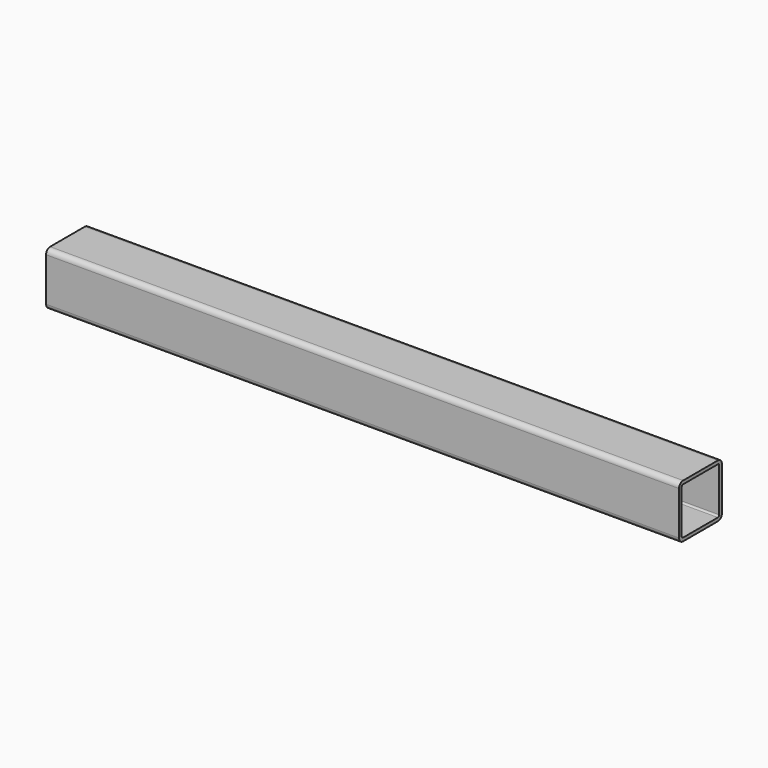
from build123d import *

# Parameters (mm, degrees)
F1_DEPTH = 1200.15


with BuildPart() as f1:
    # F0 (on Right) → F1 (new body)
    with BuildSketch(Plane.YZ):
        with BuildLine():
            ThreePointArc((0, 9.525), (2.789808, 2.789808), (9.525, 0))
            Line((9.525, 0), (92.075, 0))
            ThreePointArc((92.075, 0), (98.810192, 2.789808), (101.6, 9.525))
            Line((101.6, 9.525), (101.6, 92.075))
            ThreePointArc((101.6, 92.075), (98.810192, 98.810192), (92.075, 101.6))
            Line((92.075, 101.6), (9.525, 101.6))
            ThreePointArc((9.525, 101.6), (2.789808, 98.810192), (0, 92.075))
            Line((0, 92.075), (0, 9.525))
        make_face()
        with BuildLine():
            ThreePointArc((95.25, 9.525), (94.320064, 7.279936), (92.075, 6.35))
            Line((92.075, 6.35), (9.525, 6.35))
            ThreePointArc((9.525, 6.35), (7.279936, 7.279936), (6.35, 9.525))
            Line((6.35, 9.525), (6.35, 92.075))
            ThreePointArc((6.35, 92.075), (7.279936, 94.320064), (9.525, 95.25))
            Line((9.525, 95.25), (92.075, 95.25))
            ThreePointArc((92.075, 95.25), (94.320064, 94.320064), (95.25, 92.075))
            Line((95.25, 92.075), (95.25, 9.525))
        make_face(mode=Mode.SUBTRACT)
    extrude(amount=F1_DEPTH)


solid = f1.part
